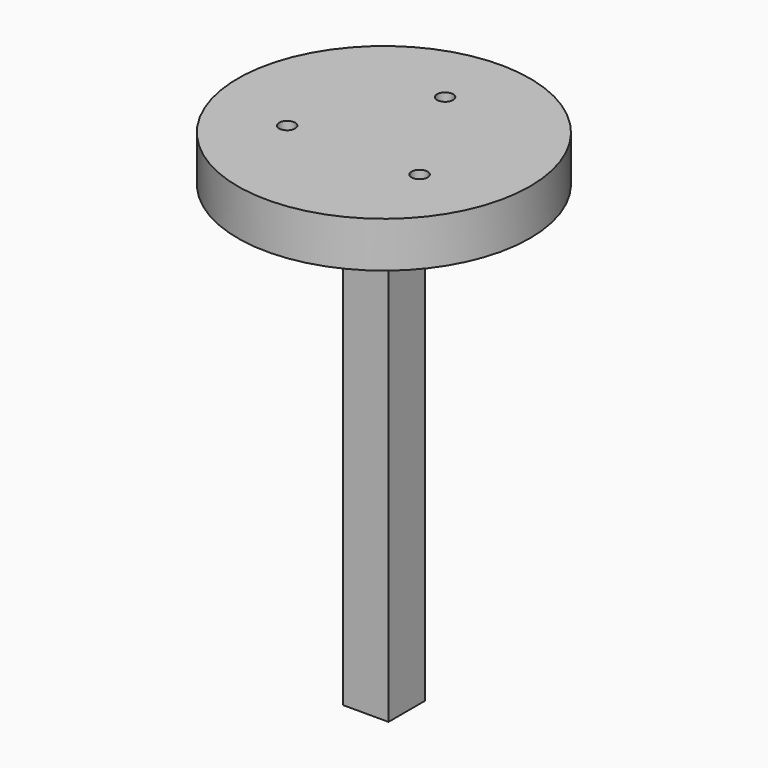
from build123d import *

# Parameters (mm, degrees)
SKETCH_R        = 32
SKETCH_R_2      = 1.75
PAD_DEPTH       = 10
SKETCH003_R     = 3
POCKET001_DEPTH = 4
SKETCH001_W     = 10
SKETCH001_H     = 10
PAD001_DEPTH    = 100
SKETCH002_W     = 5
SKETCH002_H     = 5
POCKET_DEPTH    = 20


with BuildPart() as body:
    # Sketch → Pad (new body)
    with BuildSketch(Plane.XY):
        Circle(SKETCH_R)
        with Locations((0, 16.75)):
            Circle(SKETCH_R_2, mode=Mode.SUBTRACT)
        with Locations((-14.5, -8.364737)):
            Circle(SKETCH_R_2, mode=Mode.SUBTRACT)
        with Locations((14.5, -8.364737)):
            Circle(SKETCH_R_2, mode=Mode.SUBTRACT)
    extrude(amount=PAD_DEPTH)

    # Sketch003 (on DatumPlane) → Pocket001 (cut)
    with BuildSketch(Plane(origin=(0, 0, 0), x_dir=(1, 0, 0), z_dir=(0, 0, -1))):
        with Locations((-14.5, 8.364737)):
            Circle(SKETCH003_R)
        with Locations((14.5, 8.364737)):
            Circle(SKETCH003_R)
        with Locations((0, -16.75)):
            Circle(SKETCH003_R)
    extrude(amount=-POCKET001_DEPTH, mode=Mode.SUBTRACT)


with BuildPart() as body001:
    # Sketch001 → Pad001 (new body)
    with BuildSketch(Plane.XY):
        Rectangle(SKETCH001_W, SKETCH001_H)
    extrude(amount=-PAD001_DEPTH)

    # Sketch002 (on DatumPlane) → Pocket (cut)
    with BuildSketch(Plane(origin=(0, 0, -100), x_dir=(1, 0, 0), z_dir=(0, 0, -1))):
        Rectangle(SKETCH002_W, SKETCH002_H)
    extrude(amount=-POCKET_DEPTH, mode=Mode.SUBTRACT)


solid = Compound([body.part, body001.part])
